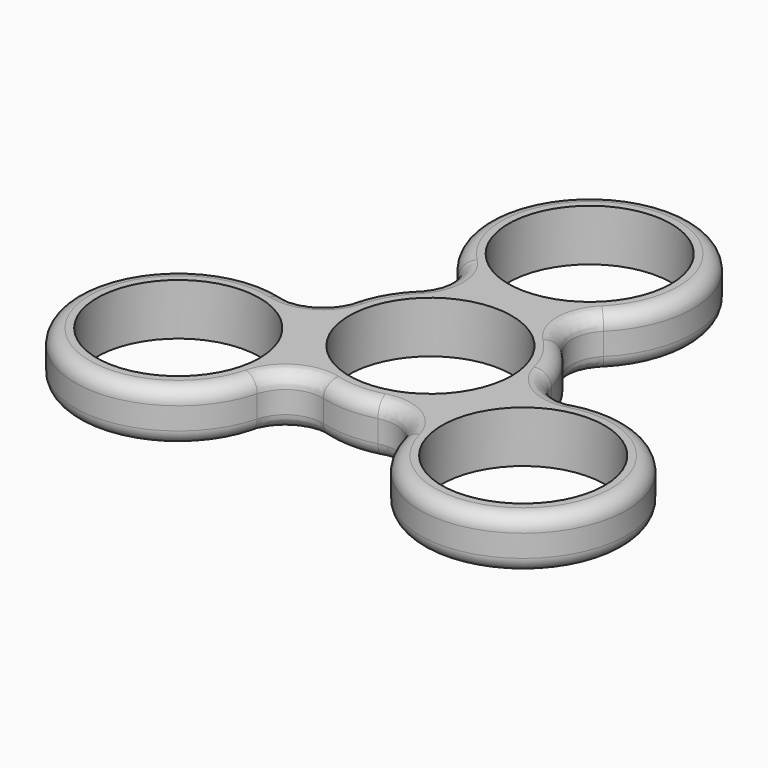
from build123d import *

# Parameters (mm, degrees)
F0_R     = 11.025
F0_R_2   = 11.02
F1_DEPTH = 7
F2_R     = 5
F3_R     = 2


with BuildPart() as f1:
    # F0 (on Top) → F1 (new body)
    with BuildSketch(Plane.XY):
        with BuildLine():
            ThreePointArc((13.545634, -6.795182), (12.124381, 3.742922), (3.708663, 10.242712))
            ThreePointArc((3.708663, 10.242712), (-0.000181, 37.742531), (-3.70869, 10.242667))
            ThreePointArc((-3.70869, 10.242667), (-12.12433, 3.742775), (-13.545454, -6.795347))
            ThreePointArc((-13.545454, -6.795347), (-35.506574, -23.757209), (-9.836739, -13.21894))
            ThreePointArc((-9.836739, -13.21894), (0.000153, -17.257152), (9.836996, -13.218821))
            ThreePointArc((9.836996, -13.218821), (35.50696, -23.756778), (13.545634, -6.795182))
        make_face()
        with Locations((-23.382782, -16.757469)):
            Circle(F0_R, mode=Mode.SUBTRACT)
        with Locations((-9.6e-05, -3.257469)):
            Circle(F0_R_2, mode=Mode.SUBTRACT)
        with Locations((23.38259, -16.757469)):
            Circle(F0_R, mode=Mode.SUBTRACT)
        with Locations((-9.6e-05, 23.742531)):
            Circle(F0_R, mode=Mode.SUBTRACT)
        with BuildLine():
            ThreePointArc((13.545634, -6.795182), (12.124381, 3.742922), (3.708663, 10.242712))
            ThreePointArc((3.708663, 10.242712), (-0.000181, 37.742531), (-3.70869, 10.242667))
            ThreePointArc((-3.70869, 10.242667), (-12.12433, 3.742775), (-13.545454, -6.795347))
            ThreePointArc((-13.545454, -6.795347), (-35.506574, -23.757209), (-9.836739, -13.21894))
            ThreePointArc((-9.836739, -13.21894), (0.000153, -17.257152), (9.836996, -13.218821))
            ThreePointArc((9.836996, -13.218821), (35.50696, -23.756778), (13.545634, -6.795182))
        make_face()
        with Locations((-23.382782, -16.757469)):
            Circle(F0_R, mode=Mode.SUBTRACT)
        with Locations((-9.6e-05, -3.257469)):
            Circle(F0_R_2, mode=Mode.SUBTRACT)
        with Locations((23.38259, -16.757469)):
            Circle(F0_R, mode=Mode.SUBTRACT)
        with Locations((-9.6e-05, 23.742531)):
            Circle(F0_R, mode=Mode.SUBTRACT)
        with BuildLine():
            ThreePointArc((13.545634, -6.795182), (12.124381, 3.742922), (3.708663, 10.242712))
            ThreePointArc((3.708663, 10.242712), (-0.000181, 37.742531), (-3.70869, 10.242667))
            ThreePointArc((-3.70869, 10.242667), (-12.12433, 3.742775), (-13.545454, -6.795347))
            ThreePointArc((-13.545454, -6.795347), (-35.506574, -23.757209), (-9.836739, -13.21894))
            ThreePointArc((-9.836739, -13.21894), (0.000153, -17.257152), (9.836996, -13.218821))
            ThreePointArc((9.836996, -13.218821), (35.50696, -23.756778), (13.545634, -6.795182))
        make_face()
        with Locations((-23.382782, -16.757469)):
            Circle(F0_R, mode=Mode.SUBTRACT)
        with Locations((-9.6e-05, -3.257469)):
            Circle(F0_R_2, mode=Mode.SUBTRACT)
        with Locations((23.38259, -16.757469)):
            Circle(F0_R, mode=Mode.SUBTRACT)
        with Locations((-9.6e-05, 23.742531)):
            Circle(F0_R, mode=Mode.SUBTRACT)
        with BuildLine():
            ThreePointArc((13.545634, -6.795182), (12.124381, 3.742922), (3.708663, 10.242712))
            ThreePointArc((3.708663, 10.242712), (-0.000181, 37.742531), (-3.70869, 10.242667))
            ThreePointArc((-3.70869, 10.242667), (-12.12433, 3.742775), (-13.545454, -6.795347))
            ThreePointArc((-13.545454, -6.795347), (-35.506574, -23.757209), (-9.836739, -13.21894))
            ThreePointArc((-9.836739, -13.21894), (0.000153, -17.257152), (9.836996, -13.218821))
            ThreePointArc((9.836996, -13.218821), (35.50696, -23.756778), (13.545634, -6.795182))
        make_face()
        with Locations((-23.382782, -16.757469)):
            Circle(F0_R, mode=Mode.SUBTRACT)
        with Locations((-9.6e-05, -3.257469)):
            Circle(F0_R_2, mode=Mode.SUBTRACT)
        with Locations((23.38259, -16.757469)):
            Circle(F0_R, mode=Mode.SUBTRACT)
        with Locations((-9.6e-05, 23.742531)):
            Circle(F0_R, mode=Mode.SUBTRACT)
    extrude(amount=F1_DEPTH)

    # F2
    f2_edges = [f1.edges().sort_by_distance(p)[0] for p in [
        (-13.545454, -6.795347, 3.5),
        (-9.836739, -13.21894, 3.5),
        (9.836996, -13.218821, 3.5),
        (13.545634, -6.795182, 3.5),
        (3.708663, 10.242712, 3.5),
        (-3.70869, 10.242667, 3.5),
    ]]
    fillet(f2_edges, radius=F2_R)

    # F3
    f3_edges = [f1.edges().sort_by_distance(p)[0] for p in [
        (-0.000181, 37.742531, 7),
        (-35.506574, -23.757209, 0),
    ]]
    fillet(f3_edges, radius=F3_R)


solid = f1.part
